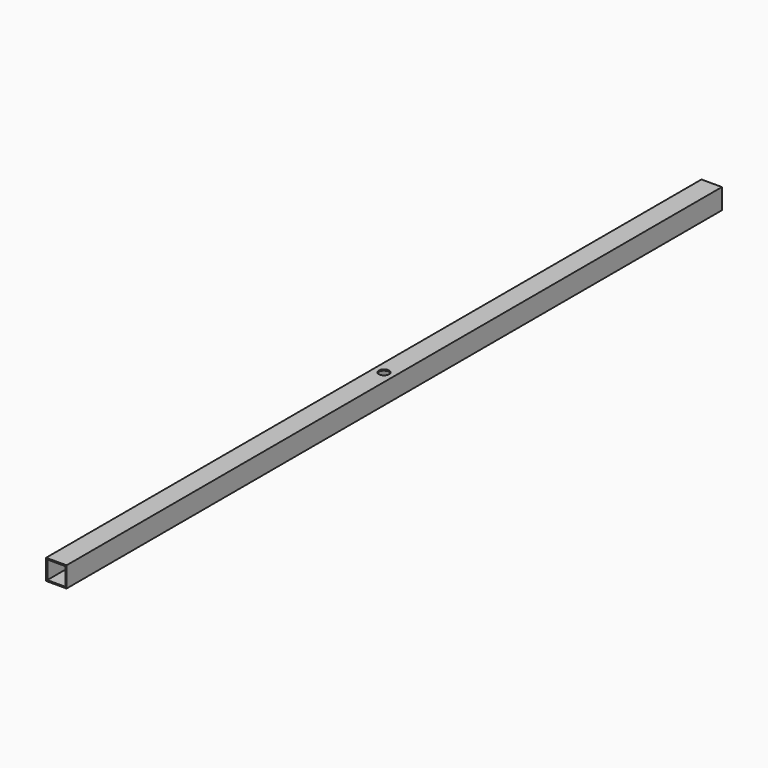
from build123d import *

# Parameters (mm, degrees)
F0_W     = 25.4
F0_H     = 25.4
F0_W_2   = 22.4536
F0_H_2   = 22.4536
F1_DEPTH = 1016
F2_R     = 6.35
F3_DEPTH = 25.401


with BuildPart() as f1:
    # F0 (on Front) → F1 (new body)
    with BuildSketch(Plane.XZ):
        with Locations((12.7, 12.7)):
            Rectangle(F0_W, F0_H)
        with Locations((12.7, 12.7)):
            Rectangle(F0_W_2, F0_H_2, mode=Mode.SUBTRACT)
    extrude(amount=F1_DEPTH)

    # F2 (on face) → F3 (cut, through all)
    with BuildSketch(Plane(origin=(0, 0, 0), x_dir=(1, 0, 0), z_dir=(0, 0, -1))):
        with Locations((12.7, 508)):
            Circle(F2_R)
    extrude(amount=-F3_DEPTH, mode=Mode.SUBTRACT)


solid = f1.part
